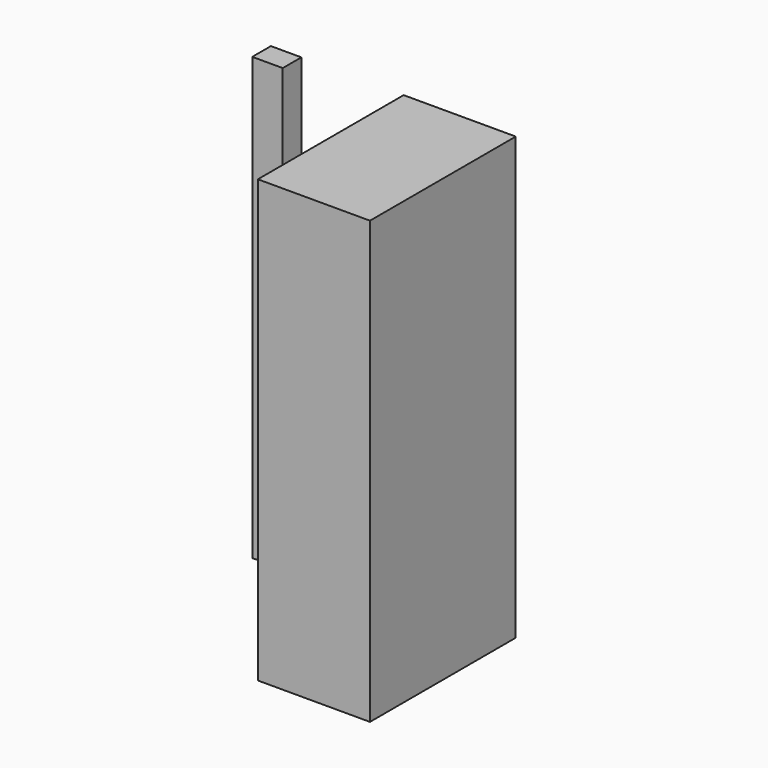
from build123d import *

# Parameters (mm, degrees)
F0_W     = 7.01633
F0_H     = 5.360534
F0_W_2   = 25.809981
F0_H_2   = 41.956451
F1_DEPTH = 101.6


with BuildPart() as f1:
    # F0 (on Top) → F1 (new body)
    with BuildSketch(Plane.XY):
        with Locations((-154.584378, -22.888611)):
            Rectangle(F0_W, F0_H)
        with Locations((-114.618313, -41.186569)):
            Rectangle(F0_W_2, F0_H_2)
    extrude(amount=F1_DEPTH)


solid = f1.part
